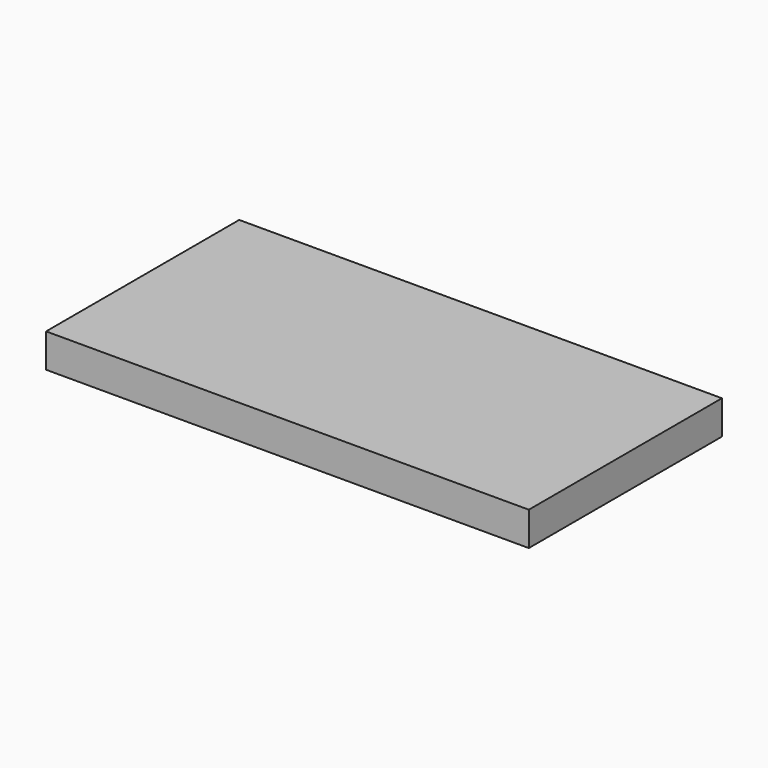
from build123d import *

# Parameters (mm, degrees)
SKETCH_W  = 200
SKETCH_H  = 100
PAD_DEPTH = 14


with BuildPart() as part:
    # Sketch → Pad (new body)
    with BuildSketch(Plane.XY):
        with Locations((100, 50)):
            Rectangle(SKETCH_W, SKETCH_H)
    extrude(amount=PAD_DEPTH)


solid = part.part
